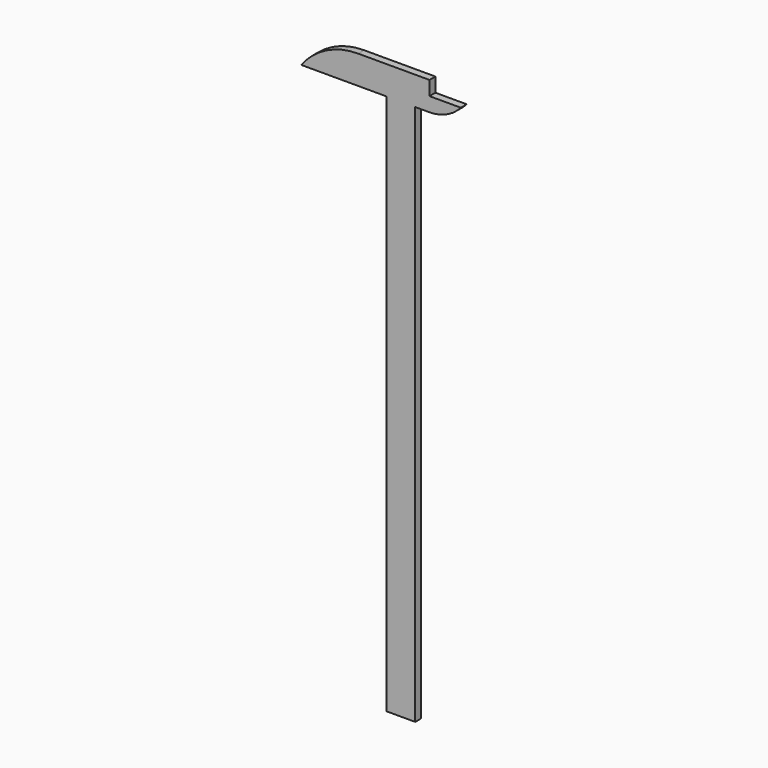
from build123d import *

# Parameters (mm, degrees)
F0_W     = 12.7
F0_H     = 241.3
F0_H_2   = 12.7
F1_DEPTH = 1.651


with BuildPart() as f1:
    # F0 (on Front) → F1 (new body, symmetric)
    with BuildSketch(Plane.XZ):
        Rectangle(F0_W, F0_H)
        Polygon((6.35, 133.35), (6.35, 120.65), (12.7, 120.65), (12.7, 127), (12.7, 133.35), align=None)
        with Locations((0, 127)):
            Rectangle(F0_W, F0_H_2)
        with BuildLine():
            Line((-44.45, 120.65), (-6.35, 120.65))
            Line((-6.35, 120.65), (-6.35, 133.35))
            Line((-6.35, 133.35), (-19.05, 133.35))
            ThreePointArc((-19.05, 133.35), (-33.249032, 129.998063), (-44.45, 120.65))
        make_face()
        with BuildLine():
            Line((12.7, 127), (12.7, 120.65))
            ThreePointArc((12.7, 120.65), (20.372734, 122.311985), (26.67, 127))
            Line((26.67, 127), (12.7, 127))
        make_face()
    extrude(amount=F1_DEPTH, both=True)


solid = f1.part
